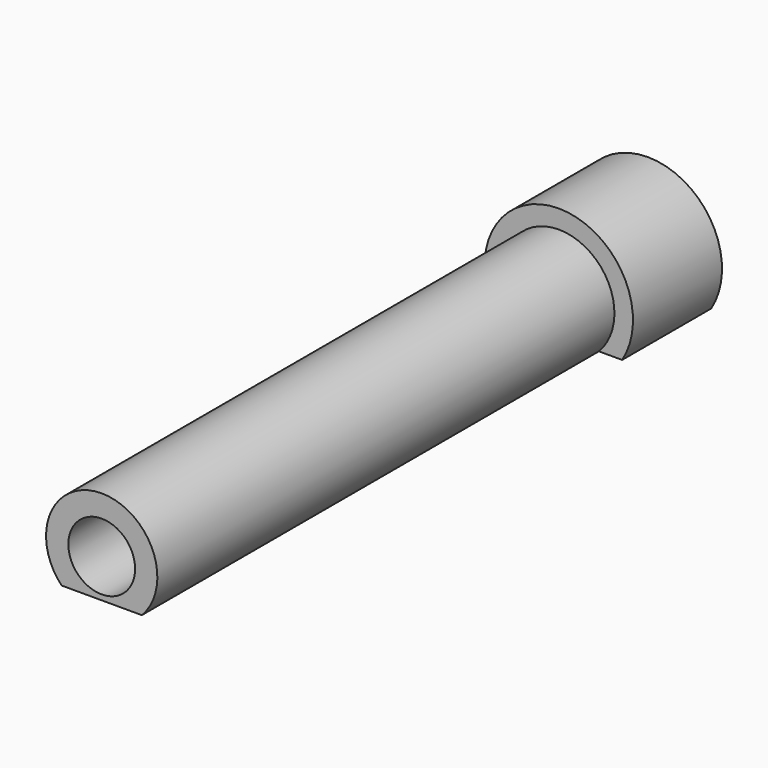
from build123d import *

# Parameters (mm, degrees)
F0_R     = 5.715
F1_DEPTH = 19.05
F2_R     = 5.715
F3_DEPTH = 97.79


with BuildPart() as f1:
    # F0 (on Front) → F1 (new body)
    with BuildSketch(Plane.XZ):
        with BuildLine():
            Line((-10.847912, -6.604), (10.847912, -6.604))
            ThreePointArc((10.847912, -6.604), (0, 12.7), (-10.847912, -6.604))
        make_face()
        Circle(F0_R, mode=Mode.SUBTRACT)
    extrude(amount=-F1_DEPTH)

    # F2 (on Front) → F3 (join)
    with BuildSketch(Plane.XZ):
        with BuildLine():
            Line((-6.863877, -6.604), (6.863877, -6.604))
            ThreePointArc((6.863877, -6.604), (0, 9.525), (-6.863877, -6.604))
        make_face()
        Circle(F2_R, mode=Mode.SUBTRACT)
    extrude(amount=F3_DEPTH)


solid = f1.part
